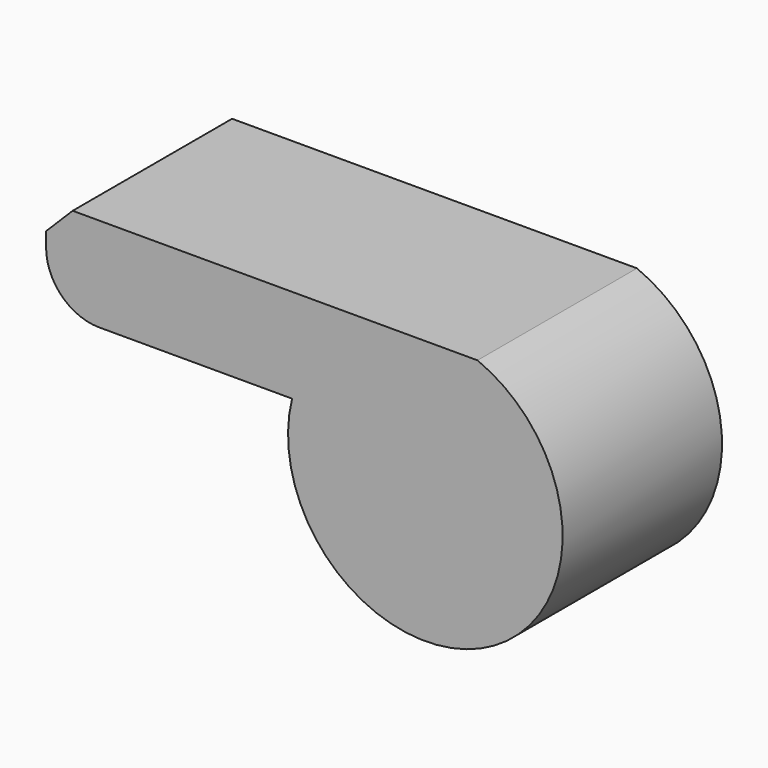
from build123d import *

# Parameters (mm, degrees)
F1_DEPTH = 7.5
F2_R     = 2
F3_SIZE  = 1


with BuildPart() as f1:
    # F0 (on Front) → F1 (new body)
    with BuildSketch(Plane.XZ):
        with BuildLine():
            Line((7.648719, 8.582773), (-8.586255, 8.582773))
            Line((-8.586255, 8.582773), (-8.586255, 5.043917))
            Line((-8.586255, 5.043917), (0.670703, 5.043917))
            ThreePointArc((0.670703, 5.043917), (8.022373, -0.80316), (7.648719, 8.582773))
        make_face()
    extrude(amount=F1_DEPTH)

    # F2
    f2_edges = [f1.edges().sort_by_distance(p)[0] for p in [
        (-8.586255, -3.75, 5.043917),
    ]]
    fillet(f2_edges, radius=F2_R)

    # F3
    f3_edges = [f1.edges().sort_by_distance(p)[0] for p in [
        (-8.586255, -3.75, 8.582773),
    ]]
    chamfer(f3_edges, length=F3_SIZE)


solid = f1.part
